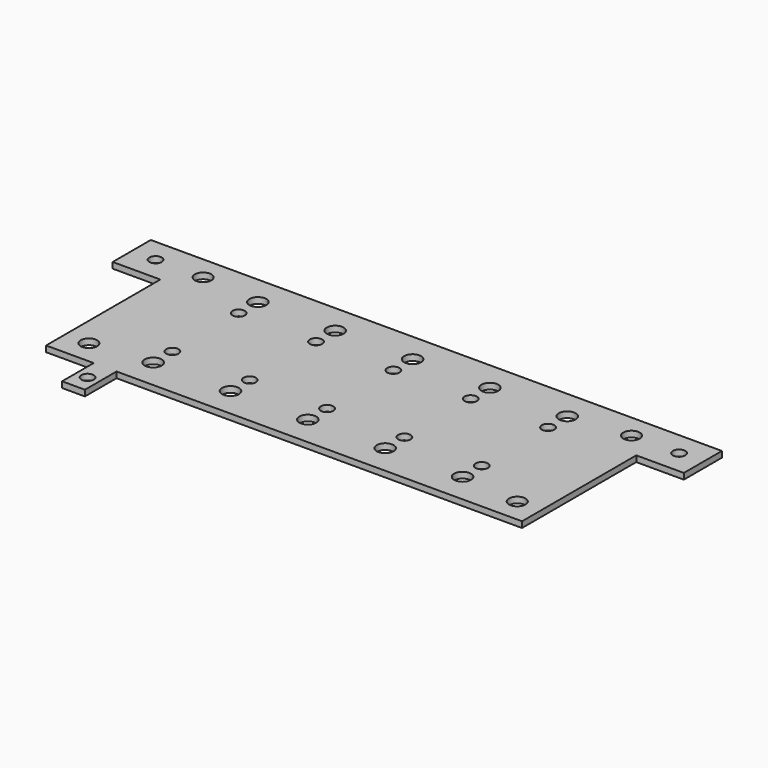
from build123d import *

# Parameters (mm, degrees)
F0_W      = 279.4
F0_H      = 101.6
F1_DEPTH  = 3.175
F2_W      = 25.4
F2_H      = 76.2
F3_DEPTH  = 3.176
F4_W      = 12.192
F4_H      = 21.082
F5_DEPTH  = 3.175
F7_D      = 6.6
F9_D      = 8.8
F11_D     = 8.8
F13_D     = 6.6
F14_W     = 25.4
F14_H     = 3.175
F15_DEPTH = 25.4
F17_D     = 6.6
F19_D     = 9
F20_D     = 6.6


with BuildPart() as f1:
    # F0 (on Top) → F1 (new body)
    with BuildSketch(Plane.XY):
        with Locations((37.6198536942, 37.7514991719)):
            Rectangle(F0_W, F0_H)
    extrude(amount=F1_DEPTH)

    # F2 (on face) → F3 (cut, through all)
    with BuildSketch(Plane.XY.offset(3.175)):
        with Locations((-89.3801463058, 25.0514991719)):
            Rectangle(F2_W, F2_H)
    extrude(amount=-F3_DEPTH, mode=Mode.SUBTRACT)

    # F4 (on face) → F5 (join)
    with BuildSketch(Plane(origin=(0, 0, 0), x_dir=(1, 0, 0), z_dir=(0, 0, -1))):
        with Locations((-45.1841463058, 23.5895008281)):
            Rectangle(F4_W, F4_H)
        Polygon((-39.0881463058, 13.0485008281), (-51.2801463058, 13.0485008281), (-76.6801463058, 13.0485008281), (-76.6801463058, -63.1514991719), (-102.0801463058, -63.1514991719), (-102.0801463058, -88.5514991719), (177.3198536942, -88.5514991719), (177.3198536942, 13.0485008281), align=None)
    extrude(amount=-F5_DEPTH)

    # F7 (through all)
    with Locations(Plane.XY.offset(3.175)):
        with Locations((-89.3801463058, 75.8514991719)):
            Hole(F7_D / 2)

    # F9 (through all)
    with Locations(Plane.XY.offset(3.175)):
        with Locations((-63.9801463058, 75.8514991719)):
            Hole(F9_D / 2)

    # F11 (through all)
    with Locations(Plane.XY.offset(3.175)):
        with Locations((-63.9801463058, -0.3485008281), (164.6198536942, -0.3485008281), (164.6198536942, 75.8514991719)):
            Hole(F11_D / 2)

    # F13 (through all)
    with Locations(Plane.XY.offset(3.175)):
        with Locations((-45.1841463058, -24.7325008281)):
            Hole(F13_D / 2)

    # F14 (on face) → F15 (join)
    with BuildSketch(Plane.YZ.offset(177.3198536942)):
        with Locations((75.8514991719, 1.5875)):
            Rectangle(F14_W, F14_H)
    extrude(amount=F15_DEPTH)

    # F17 (through all)
    with Locations(Plane(origin=(0, 0, 0), x_dir=(1, 0, 0), z_dir=(0, 0, -1))):
        with Locations((190.0198536942, -75.8514991719)):
            Hole(F17_D / 2)

    # F19 (through all)
    with Locations(Plane.XY.offset(3.175)):
        with Locations((-32.2301463058, 72.6764991719), (9.0448536942, 72.6764991719), (50.3198536942, 72.6764991719), (91.5948536942, 72.6764991719), (132.8698536942, 72.6764991719), (132.8698536942, 2.8264991719), (91.5948536942, 2.8264991719), (50.3198536942, 2.8264991719), (9.0448536942, 2.8264991719), (-32.2301463058, 2.8264991719)):
            Hole(F19_D / 2)

    # F20 (through all)
    with Locations(Plane.XY.offset(3.175)):
        with Locations((-32.2301463058, 59.8764993719), (9.0448536942, 59.8764993719), (50.3198536942, 59.8764993719), (91.5948536942, 59.8764993719), (132.8698536942, 59.8764993719), (132.8698536942, 15.6264989719), (91.5948536942, 15.6264989719), (50.3198536942, 15.6264989719), (9.0448536942, 15.6264989719), (-32.2301463058, 15.6264989719)):
            Hole(F20_D / 2)


solid = f1.part
